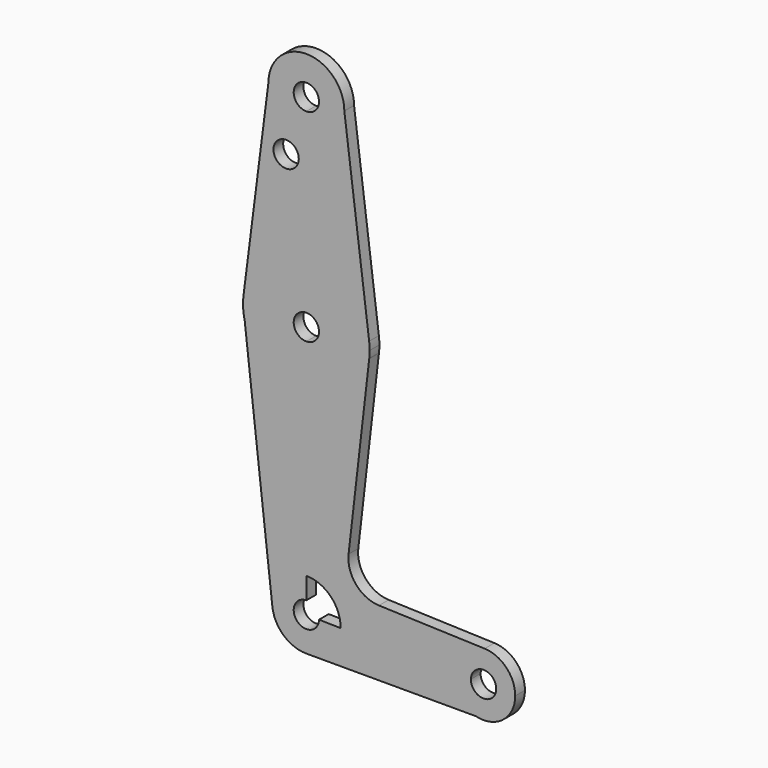
from build123d import *

# Parameters (mm, degrees)
F0_R     = 3.175
F1_DEPTH = 3.048


with BuildPart() as f1:
    # F0 (on Front) → F1 (new body)
    with BuildSketch(Plane.XZ):
        with BuildLine():
            ThreePointArc((3.175, 64.975008), (-2.245064, 67.220072), (0, 61.800008))
            ThreePointArc((0, 61.800008), (2.245064, 62.729944), (3.175, 64.975008))
        make_face()
        with BuildLine():
            ThreePointArc((0, 55.450008), (6.735192, 58.239816), (9.525, 64.975008))
            ThreePointArc((9.525, 64.975008), (0, 74.500008), (-9.525, 64.975008))
            ThreePointArc((-9.525, 64.975008), (-6.735192, 58.239816), (0, 55.450008))
        make_face()
        with BuildLine():
            ThreePointArc((3.175, 64.975008), (2.245064, 62.729944), (0, 61.800008))
            ThreePointArc((0, 61.800008), (-2.245064, 67.220072), (3.175, 64.975008))
        make_face(mode=Mode.SUBTRACT)
        with BuildLine():
            Line((15.747457, 16.183298), (9.525, 64.975008))
            ThreePointArc((9.525, 64.975008), (6.735192, 58.239816), (0, 55.450008))
            Line((0, 55.450008), (0, 30.050008))
            ThreePointArc((0, 30.050008), (10.491283, 26.089227), (15.747457, 16.183298))
        make_face()
        with BuildLine():
            Line((10.585464, -32.506058), (15.775011, 12.39606))
            ThreePointArc((15.775011, 12.39606), (10.577685, 2.337432), (0, -1.699992))
            Line((0, -1.699992), (0, -40.740513))
            ThreePointArc((0, -40.740513), (6.070143, -43.254849), (8.584479, -49.324992))
            ThreePointArc((8.584479, -49.324992), (8.584058, -49.409981), (8.582796, -49.494962))
            Line((8.582796, -49.494962), (36.505342, -50.047931))
            ThreePointArc((36.505342, -50.047931), (38.982324, -44.442832), (44.713041, -42.272245))
            Line((44.713041, -42.272245), (18.210903, -41.364363))
            ThreePointArc((18.210903, -41.364363), (12.457823, -38.605519), (10.585464, -32.506058))
        make_face()
        with BuildLine():
            ThreePointArc((0, 55.450008), (-6.735192, 58.239816), (-9.525, 64.975008))
            Line((-9.525, 64.975008), (-15.747457, 16.183298))
            ThreePointArc((-15.747457, 16.183298), (-10.491283, 26.089227), (0, 30.050008))
            Line((0, 30.050008), (0, 55.450008))
        make_face()
        with Locations((-5.076777, 50.700208)):
            Circle(F0_R, mode=Mode.SUBTRACT)
        with BuildLine():
            ThreePointArc((15.875, 14.175008), (15.843082, 15.181176), (15.747457, 16.183298))
            ThreePointArc((15.747457, 16.183298), (10.491283, 26.089227), (0, 30.050008))
            Line((0, 30.050008), (0, 17.350008))
            ThreePointArc((0, 17.350008), (2.245064, 16.420072), (3.175, 14.175008))
            ThreePointArc((3.175, 14.175008), (2.245064, 11.929944), (0, 11.000008))
            Line((0, 11.000008), (0, -1.699992))
            ThreePointArc((0, -1.699992), (10.577685, 2.337432), (15.775011, 12.39606))
            ThreePointArc((15.775011, 12.39606), (15.849983, 13.28413), (15.875, 14.175008))
        make_face()
        with BuildLine():
            ThreePointArc((0, 30.050008), (-10.491283, 26.089227), (-15.747457, 16.183298))
            ThreePointArc((-15.747457, 16.183298), (-15.843082, 15.181176), (-15.875, 14.175008))
            Line((-15.875, 14.175008), (-15.468117, 10.603877))
            ThreePointArc((-15.468117, 10.603877), (-9.882406, 1.751093), (0, -1.699992))
            Line((0, -1.699992), (0, 11.000008))
            ThreePointArc((0, 11.000008), (-3.175, 14.175008), (0, 17.350008))
            Line((0, 17.350008), (0, 30.050008))
        make_face()
        with BuildLine():
            Line((-15.468117, 10.603877), (-15.875, 14.175008))
            ThreePointArc((-15.875, 14.175008), (-15.772951, 12.37789), (-15.468117, 10.603877))
        make_face()
        with BuildLine():
            ThreePointArc((0, -1.699992), (-9.882406, 1.751093), (-15.468117, 10.603877))
            Line((-15.468117, 10.603877), (-8.529295, -50.296791))
            ThreePointArc((-8.529295, -50.296791), (-6.404517, -43.608748), (0, -40.740513))
            Line((0, -40.740513), (0, -1.699992))
        make_face()
        with BuildLine():
            ThreePointArc((0, -40.740513), (-6.404517, -43.608748), (-8.529295, -50.296791))
            ThreePointArc((-8.529295, -50.296791), (-5.716244, -55.729508), (0, -57.90947))
            ThreePointArc((0, -57.90947), (6.009749, -55.454934), (8.582796, -49.494962))
            Line((8.582796, -49.494962), (3.174378, -49.387856))
            ThreePointArc((3.174378, -49.387856), (-2.267181, -51.547719), (0, -46.149992))
            Line((0, -46.149992), (0, -40.740513))
        make_face()
        with BuildLine():
            ThreePointArc((8.582796, -49.494962), (6.009749, -55.454934), (0, -57.90947))
            Line((0, -57.90947), (42.531717, -57.90947))
            ThreePointArc((42.531717, -57.90947), (38.141724, -55.034111), (36.505342, -50.047931))
            Line((36.505342, -50.047931), (8.582796, -49.494962))
        make_face()
        with BuildLine():
            ThreePointArc((47.616286, -50.205092), (44.47272, -47.030247), (41.266909, -50.142227))
            ThreePointArc((41.266909, -50.142227), (44.409853, -53.379936), (47.616286, -50.205092))
        make_face()
        with BuildLine():
            ThreePointArc((52.378786, -50.205092), (50.149218, -44.689348), (44.713041, -42.272245))
            ThreePointArc((44.713041, -42.272245), (38.982324, -44.442832), (36.505342, -50.047931))
            ThreePointArc((36.505342, -50.047931), (38.141724, -55.034111), (42.531717, -57.90947))
            ThreePointArc((42.531717, -57.90947), (49.332437, -56.456536), (52.378786, -50.205092))
        make_face()
        with BuildLine():
            ThreePointArc((47.616286, -50.205092), (44.409853, -53.379936), (41.266909, -50.142227))
            ThreePointArc((41.266909, -50.142227), (44.47272, -47.030247), (47.616286, -50.205092))
        make_face(mode=Mode.SUBTRACT)
    extrude(amount=F1_DEPTH)


solid = f1.part
